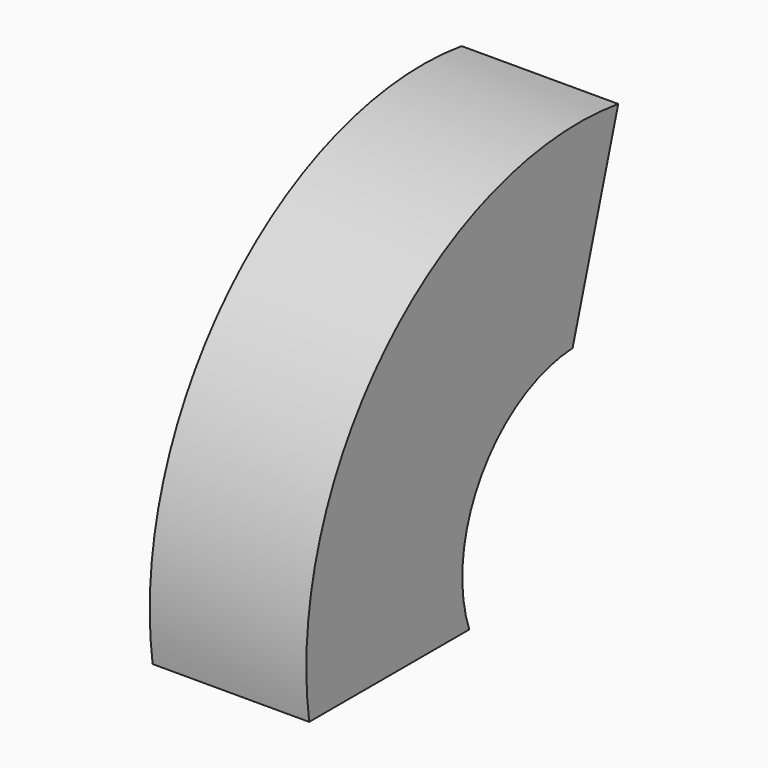
from build123d import *

# Parameters (mm, degrees)
F0_W = 22.631261
F0_H = 28.906595


with BuildPart() as f2:
    # F2: sweep along a path in F1
    with BuildLine(Plane.YZ) as f2_path:
        ThreePointArc((49.586758, 34.930319), (26.988201, 24.406584), (21.912536, 0))
    # F0 (on Top) → F2 (sweep)
    with BuildSketch(Plane.XY):
        with Locations((11.31563, 14.453297)):
            Rectangle(F0_W, F0_H)
    sweep(path=f2_path.line)


solid = f2.part
